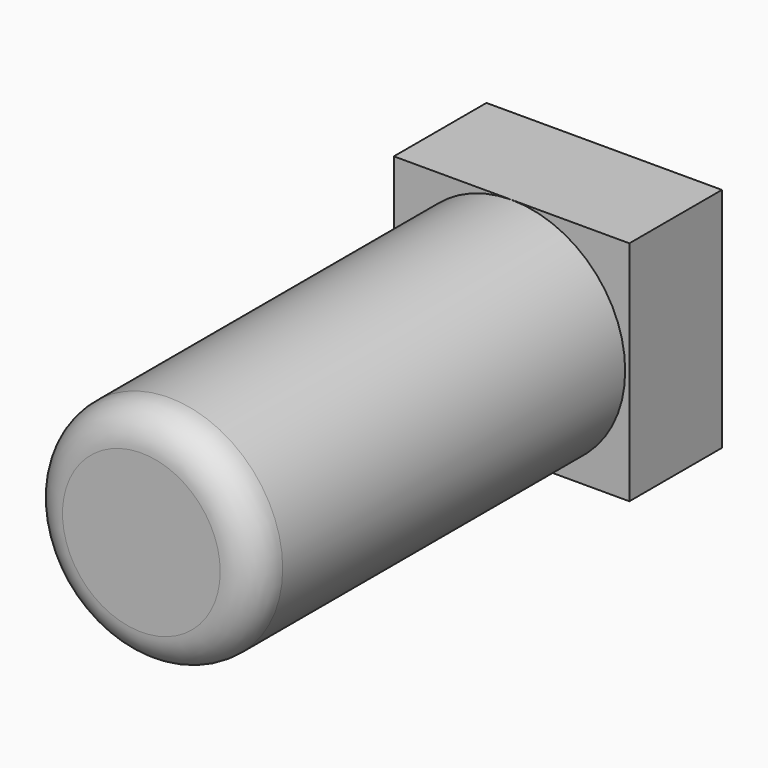
from build123d import *

# Parameters (mm, degrees)
F0_W     = 51.6930520535
F0_H     = 49.859970808
F1_DEPTH = 25.4
F2_R     = 24.929985404
F3_DEPTH = 76.2
F4_R     = 24.929985404
F5_DEPTH = 25.4
F6_R     = 7.62


with BuildPart() as f1:
    # F0 (on Front) → F1 (new body)
    with BuildSketch(Plane.XZ):
        with Locations((-5.3159445524, 147.0135599375)):
            Rectangle(F0_W, F0_H)
    extrude(amount=F1_DEPTH)

    # F2 (on face) → F3 (join)
    with BuildSketch(Plane.XZ.offset(25.4)):
        with Locations((-5.3159445524, 147.0135599375)):
            Circle(F2_R)
    extrude(amount=F3_DEPTH)

    # F4 (on face) → F5 (join)
    with BuildSketch(Plane.XZ.offset(101.6)):
        with Locations((-5.3159445524, 147.0135599375)):
            Circle(F4_R)
    extrude(amount=F5_DEPTH)

    # F6
    f6_edges = [f1.edges().sort_by_distance(p)[0] for p in [
        (-30.24593, -127, 147.01356),
    ]]
    fillet(f6_edges, radius=F6_R)


solid = f1.part
